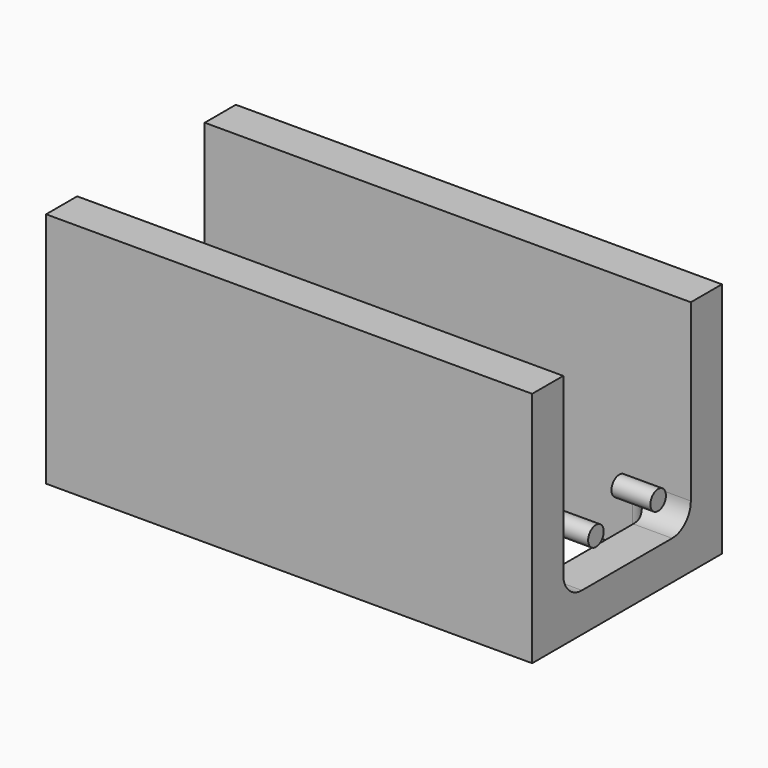
from build123d import *

# Parameters (mm, degrees)
F0_W     = 396.875
F0_H     = 193.675
F1_DEPTH = 96.8375
F2_R     = 7.9375
F3_DEPTH = 396.876


with BuildPart() as f1:
    # F0 (on Top) → F1 (new body, symmetric)
    with BuildSketch(Plane.XY):
        Rectangle(F0_W, F0_H)
        with BuildLine():
            ThreePointArc((-166.6875, 49.2125), (-162.0378201513, 60.4378201513), (-150.8125, 65.0875))
            Line((-150.8125, 65.0875), (-28.575, 65.0875))
            ThreePointArc((-28.575, 65.0875), (-17.3496798487, 60.4378201513), (-12.7, 49.2125))
            Line((-12.7, 49.2125), (-12.7, 0))
            Line((-12.7, 0), (-12.7, -49.2125))
            ThreePointArc((-12.7, -49.2125), (-17.3496798487, -60.4378201513), (-28.575, -65.0875))
            Line((-28.575, -65.0875), (-150.8125, -65.0875))
            ThreePointArc((-150.8125, -65.0875), (-162.0378201513, -60.4378201513), (-166.6875, -49.2125))
            Line((-166.6875, -49.2125), (-166.6875, 49.2125))
        make_face(mode=Mode.SUBTRACT)
        with BuildLine():
            Line((12.7, -49.2125), (12.7, 0))
            Line((12.7, 0), (12.7, 49.2125))
            ThreePointArc((12.7, 49.2125), (17.3496798487, 60.4378201513), (28.575, 65.0875))
            Line((28.575, 65.0875), (150.8125, 65.0875))
            ThreePointArc((150.8125, 65.0875), (162.0378201513, 60.4378201513), (166.6875, 49.2125))
            Line((166.6875, 49.2125), (166.6875, -49.2125))
            ThreePointArc((166.6875, -49.2125), (162.0378201513, -60.4378201513), (150.8125, -65.0875))
            Line((150.8125, -65.0875), (28.575, -65.0875))
            ThreePointArc((28.575, -65.0875), (17.3496798487, -60.4378201513), (12.7, -49.2125))
        make_face(mode=Mode.SUBTRACT)
    extrude(amount=F1_DEPTH, both=True)

    # F2 (on face) → F3 (cut, through all)
    with BuildSketch(Plane.YZ.offset(198.4375)):
        with BuildLine():
            Line((65.0875, 96.8375), (-65.0875, 96.8375))
            Line((-65.0875, 96.8375), (-65.0875, -46.0375))
            ThreePointArc((-65.0875, -46.0375), (-59.5078841816, -59.5078841816), (-46.0375, -65.0875))
            Line((-46.0375, -65.0875), (46.0375, -65.0875))
            ThreePointArc((46.0375, -65.0875), (59.5078841816, -59.5078841816), (65.0875, -46.0375))
            Line((65.0875, -46.0375), (65.0875, 96.8375))
        make_face()
        with Locations((-31.75, -31.75)):
            Circle(F2_R, mode=Mode.SUBTRACT)
        with Locations((31.75, -31.75)):
            Circle(F2_R, mode=Mode.SUBTRACT)
    extrude(amount=-F3_DEPTH, mode=Mode.SUBTRACT)


solid = f1.part
